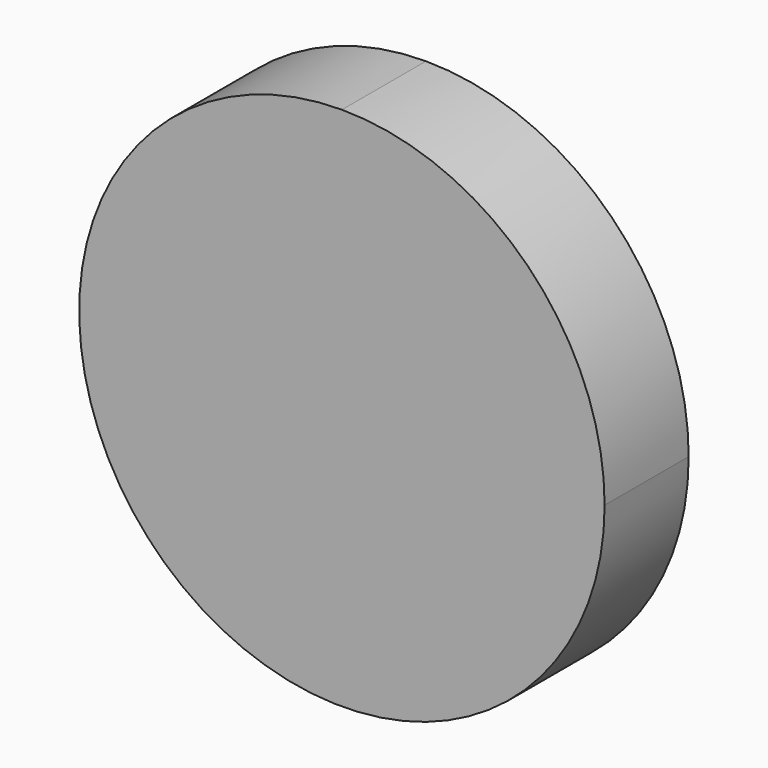
from build123d import *

# Parameters (mm, degrees)
F1_DEPTH = 2.54
F2_DEPTH = 25.4


with BuildPart() as f1:
    # F0 (on Front) → F1 (new body)
    with BuildSketch(Plane.XZ):
        with BuildLine():
            ThreePointArc((0, 0), (-12.7, 31.75), (0, 63.5))
            ThreePointArc((0, 63.5), (-22.225, 31.75), (0, 0))
        make_face()
    extrude(amount=F1_DEPTH)

    # F0 (on Front) → F2 (join)
    with BuildSketch(Plane.XZ):
        with BuildLine():
            ThreePointArc((0, 63.5), (-44.9012806053, -44.9012806053), (63.5, 0))
            ThreePointArc((63.5, 0), (44.9012806053, 44.9012806053), (0, 63.5))
        make_face()
        with BuildLine():
            ThreePointArc((0, 0), (-22.225, 31.75), (0, 63.5))
            ThreePointArc((0, 63.5), (-12.7, 31.75), (0, 0))
        make_face(mode=Mode.SUBTRACT)
        with BuildLine():
            ThreePointArc((0, 0), (-12.7, 31.75), (0, 63.5))
            ThreePointArc((0, 63.5), (-22.225, 31.75), (0, 0))
        make_face()
    extrude(amount=F2_DEPTH)


solid = f1.part
